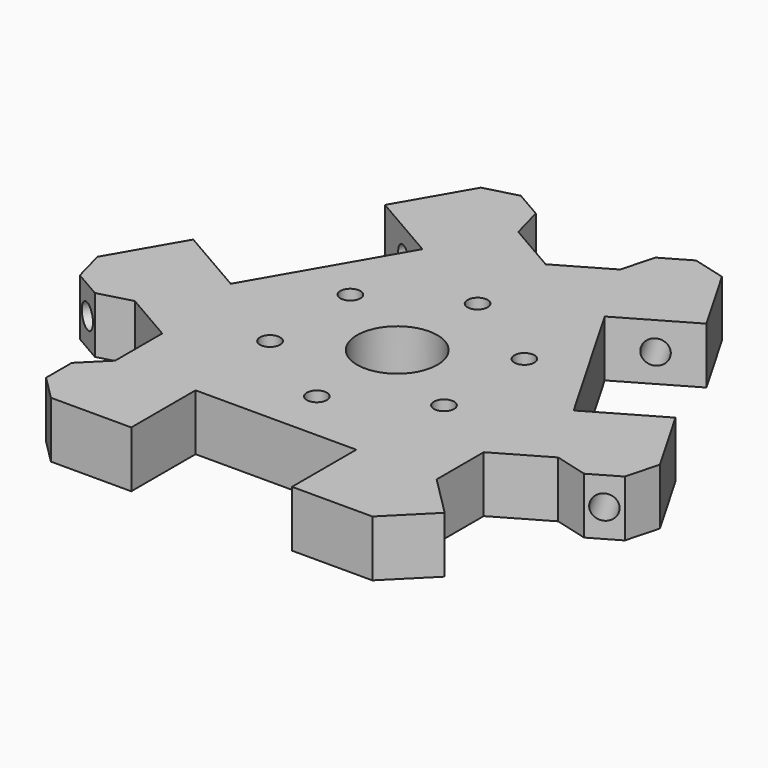
from build123d import *

# Parameters (mm, degrees)
F0_R     = 1.25
F0_R_2   = 5
F1_DEPTH = 7
F2_R     = 1.5
F3_DEPTH = 46
F4_R     = 1.5
F5_DEPTH = 46


with BuildPart() as f1:
    # F0 (on Top) → F1 (new body)
    with BuildSketch(Plane.XY):
        Polygon((-23, -25.8675134595), (-20, -28.8675134595), (-10, -28.8675134595), (-10, -18.8675134595), (10, -18.8675134595), (10, -28.8675134595), (20, -28.8675134595), (20, -18.8675134595), (20, -11.5470053838), (26.3397459622, -7.8867513459), (30.4378221735, -8.9848275573), (33.9019237886, -6.9848275573), (35, -2.8867513459), (30, 5.7735026919), (21.3397459622, 0.7735026919), (11.3397459622, 18.0940107676), (20, 23.0940107676), (15, 31.7542648054), (10.9019237886, 32.8523410168), (7.4378221735, 30.8523410168), (6.3397459622, 26.7542648054), (0, 23.0940107676), (-6.3397459622, 26.7542648054), (-7.4378221735, 30.8523410168), (-10.9019237886, 32.8523410168), (-15, 31.7542648054), (-20, 23.0940107676), (-11.3397459622, 18.0940107676), (-21.3397459622, 0.7735026919), (-30, 5.7735026919), (-35, -2.8867513459), (-33.9019237886, -6.9848275573), (-30.4378221735, -8.9848275573), (-26.3397459622, -7.8867513459), (-20, -11.5470053838), (-20, -18.8675134595), (-23, -21.8675134595), align=None)
        with Locations((-10.8253175473, -6.25)):
            Circle(F0_R, mode=Mode.SUBTRACT)
        with Locations((0, -12.5)):
            Circle(F0_R, mode=Mode.SUBTRACT)
        with Locations((10.8253175473, -6.25)):
            Circle(F0_R, mode=Mode.SUBTRACT)
        Circle(F0_R_2, mode=Mode.SUBTRACT)
        with Locations((-10.8253175473, 6.25)):
            Circle(F0_R, mode=Mode.SUBTRACT)
        with Locations((10.8253175473, 6.25)):
            Circle(F0_R, mode=Mode.SUBTRACT)
        with Locations((0, 12.5)):
            Circle(F0_R, mode=Mode.SUBTRACT)
        Polygon((23, -21.8675134595), (23, -25.8675134595), (25, -23.8675134595), align=None)
        Polygon((20, -18.8675134595), (20, -28.8675134595), (23, -25.8675134595), (23, -21.8675134595), align=None)
    extrude(amount=F1_DEPTH)

    # F2 (on face) → F3 (cut)
    with BuildSketch(Plane(origin=(-11.5, -19.918584287, 0), x_dir=(0.8660254038, -0.5, 0), z_dir=(-0.5, -0.8660254038, 0))):
        with Locations((-23.8675134595, 3.5)):
            Circle(F2_R)
    extrude(amount=-F3_DEPTH, mode=Mode.SUBTRACT)

    # F4 (on face) → F5 (cut)
    with BuildSketch(Plane(origin=(-11.5, 19.918584287, 0), x_dir=(-0.8660254038, -0.5, 0), z_dir=(-0.5, 0.8660254038, 0))):
        with Locations((-23.8675134595, 3.5)):
            Circle(F4_R)
    extrude(amount=-F5_DEPTH, mode=Mode.SUBTRACT)


solid = f1.part
